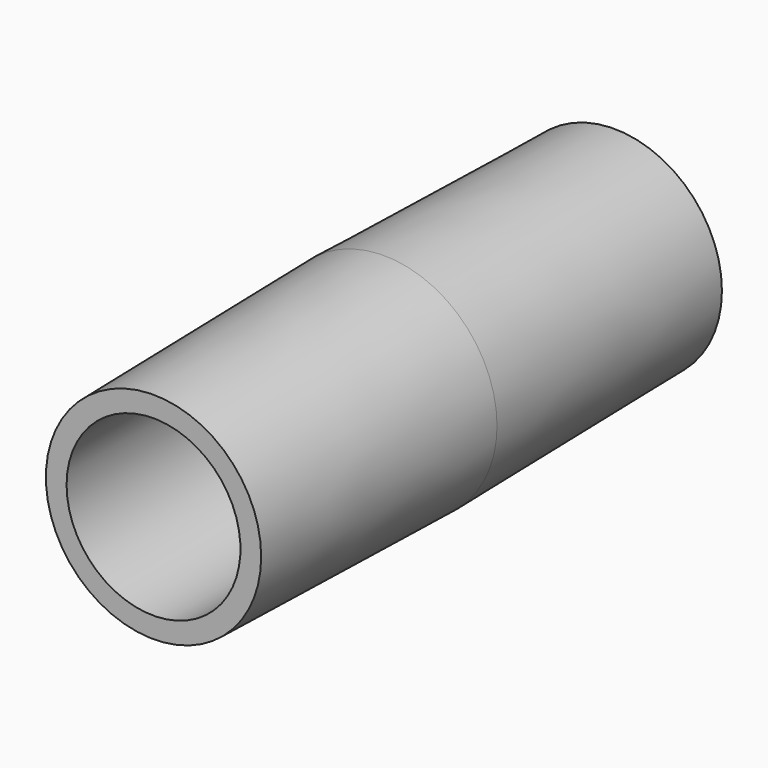
from build123d import *

# Parameters (mm, degrees)
F0_R     = 5.9817
F2_R     = 6.2865
F5_R     = 4.830776
F6_DEPTH = 50.8


with BuildPart() as f3:
    # F0 (on Front) → F3 section 0
    with BuildSketch(Plane.XZ):
        Circle(F0_R)
    # F2 (on offset) → F3 section 1
    with BuildSketch(Plane.XZ.offset(16.002)):
        Circle(F2_R)
    loft()

    # F4: F3 across plane


with BuildPart() as f3_1:
    add(f3.part)
    add(f3.part.mirror(Plane.XZ.offset(16.002)))

    # F5 (on face) → F6 (cut)
    with BuildSketch(Plane(origin=(0, 0, 0), x_dir=(-1, 0, 0), z_dir=(0, 1, 0))):
        Circle(F5_R)
    extrude(amount=-F6_DEPTH, mode=Mode.SUBTRACT)


solid = f3_1.part
